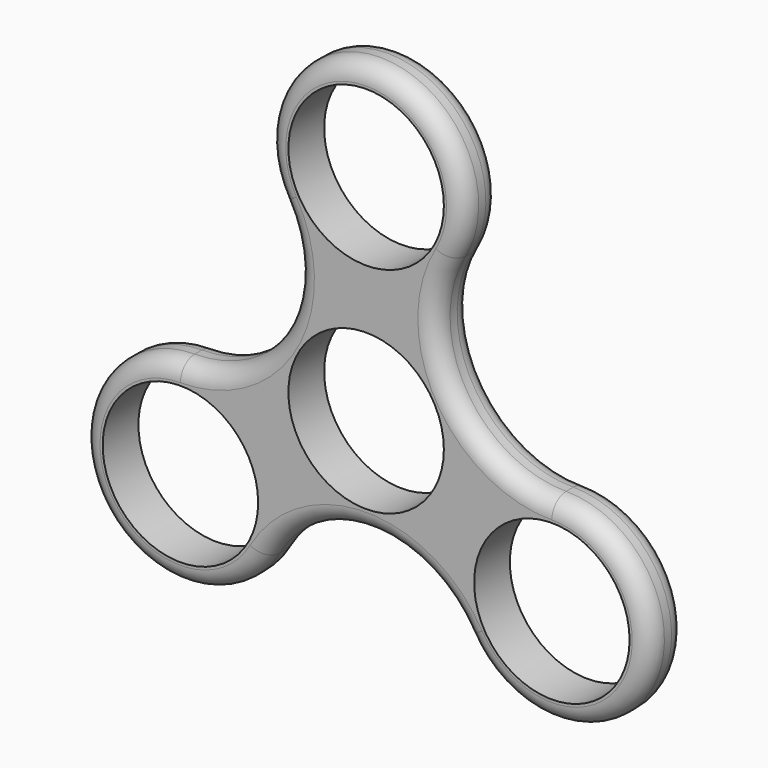
from build123d import *

# Parameters (mm, degrees)
F0_R     = 11.049
F1_DEPTH = 6.35
F2_R     = 2.54


with BuildPart() as f1:
    # F0 (on Front) → F1 (new body)
    with BuildSketch(Plane.XZ):
        with BuildLine():
            ThreePointArc((26.396454, -1.27), (12.098375, 6.985), (12.098375, 23.495))
            ThreePointArc((12.098375, 23.495), (0, 44.45), (-12.098375, 23.495))
            ThreePointArc((-12.098375, 23.495), (-12.098375, 6.985), (-26.396454, -1.27))
            ThreePointArc((-26.396454, -1.27), (-38.494829, -22.225), (-14.298079, -22.225))
            ThreePointArc((-14.298079, -22.225), (0, -13.97), (14.298079, -22.225))
            ThreePointArc((14.298079, -22.225), (38.494829, -22.225), (26.396454, -1.27))
        make_face()
        with Locations((-26.396454, -15.24)):
            Circle(F0_R, mode=Mode.SUBTRACT)
        with Locations((26.396454, -15.24)):
            Circle(F0_R, mode=Mode.SUBTRACT)
        Circle(F0_R, mode=Mode.SUBTRACT)
        with Locations((0, 30.48)):
            Circle(F0_R, mode=Mode.SUBTRACT)
    extrude(amount=F1_DEPTH)

    # F2
    f2_edges = [f1.edges().sort_by_distance(p)[0] for p in [
        (-12.098375, 0, 6.985),
        (0, -6.35, -13.97),
    ]]
    fillet(f2_edges, radius=F2_R)


solid = f1.part
